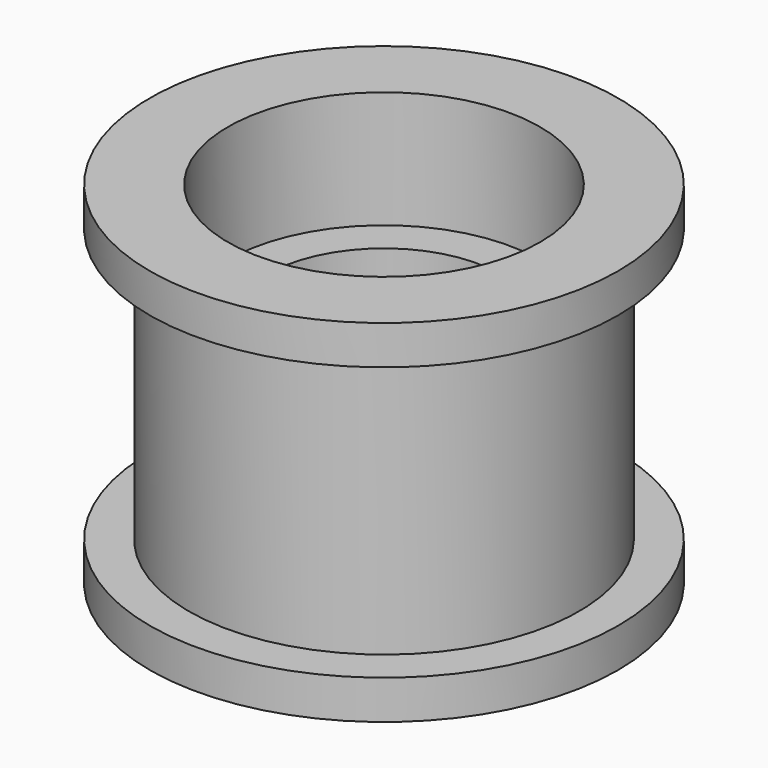
from build123d import *

# Parameters (mm, degrees)
F0_R     = 9.525
F0_R_2   = 4.7625
F1_DEPTH = 14.2875
F2_W     = 1.5875
F2_H     = 11.1125
F4_R     = 6.35
F5_DEPTH = 4.7625
F6_R     = 6.35
F7_DEPTH = 4.7625


with BuildPart() as f1:
    # F0 (on Top) → F1 (new body)
    with BuildSketch(Plane.XY):
        Circle(F0_R)
        Circle(F0_R_2, mode=Mode.SUBTRACT)
    extrude(amount=F1_DEPTH)

    # F2 (on Front) → F3 (revolve, cut)
    with BuildSketch(Plane.XZ):
        with Locations((-8.73125, 7.14375)):
            Rectangle(F2_W, F2_H)
    revolve(axis=Axis((0, 0, 0), (0, 0, -1)), mode=Mode.SUBTRACT)

    # F4 (on face) → F5 (cut)
    with BuildSketch(Plane.XY.offset(14.2875)):
        Circle(F4_R)
    extrude(amount=-F5_DEPTH, mode=Mode.SUBTRACT)

    # F6 (on face) → F7 (cut)
    with BuildSketch(Plane(origin=(0, 0, 0), x_dir=(1, 0, 0), z_dir=(0, 0, -1))):
        Circle(F6_R)
    extrude(amount=-F7_DEPTH, mode=Mode.SUBTRACT)


solid = f1.part
